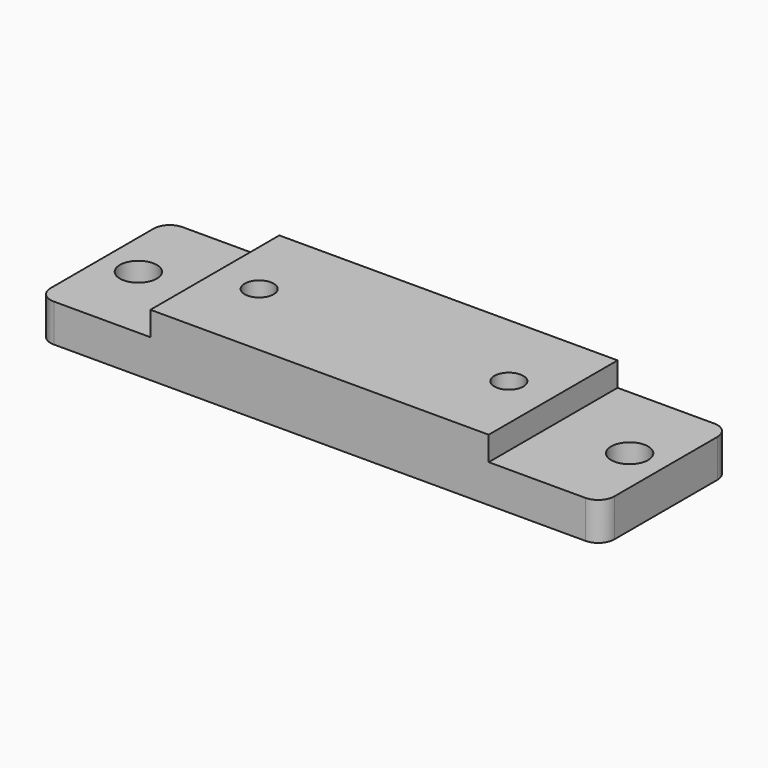
from build123d import *

# Parameters (mm, degrees)
F0_W     = 70
F0_H     = 20
F1_DEPTH = 4.7
F2_W     = 42
F2_H     = 20
F3_DEPTH = 3
F4_D     = 3.6
F4_DEPTH = 12
F5_D     = 4.6
F5_DEPTH = 12
F6_R     = 2


with BuildPart() as f1:
    # F0 (on Top) → F1 (new body)
    with BuildSketch(Plane.XY):
        Rectangle(F0_W, F0_H)
    extrude(amount=F1_DEPTH)

    # F2 (on face) → F3 (join)
    with BuildSketch(Plane.XY.offset(4.7)):
        Rectangle(F2_W, F2_H)
    extrude(amount=F3_DEPTH)

    # F4
    with Locations(Plane(origin=(0, 0, 0), x_dir=(1, 0, 0), z_dir=(0, 0, -1))):
        with Locations((-15.5, 0), (15.5, 0)):
            Hole(F4_D / 2, depth=F4_DEPTH)

    # F5
    with Locations(Plane(origin=(0, 0, 0), x_dir=(1, 0, 0), z_dir=(0, 0, -1))):
        with Locations((-30.5, 0), (30.5, 0)):
            Hole(F5_D / 2, depth=F5_DEPTH)

    # F6
    f6_edges = [f1.edges().sort_by_distance(p)[0] for p in [
        (35, -10, 2.35),
        (35, 10, 2.35),
        (-35, 10, 2.35),
        (-35, -10, 2.35),
    ]]
    fillet(f6_edges, radius=F6_R)


solid = f1.part
